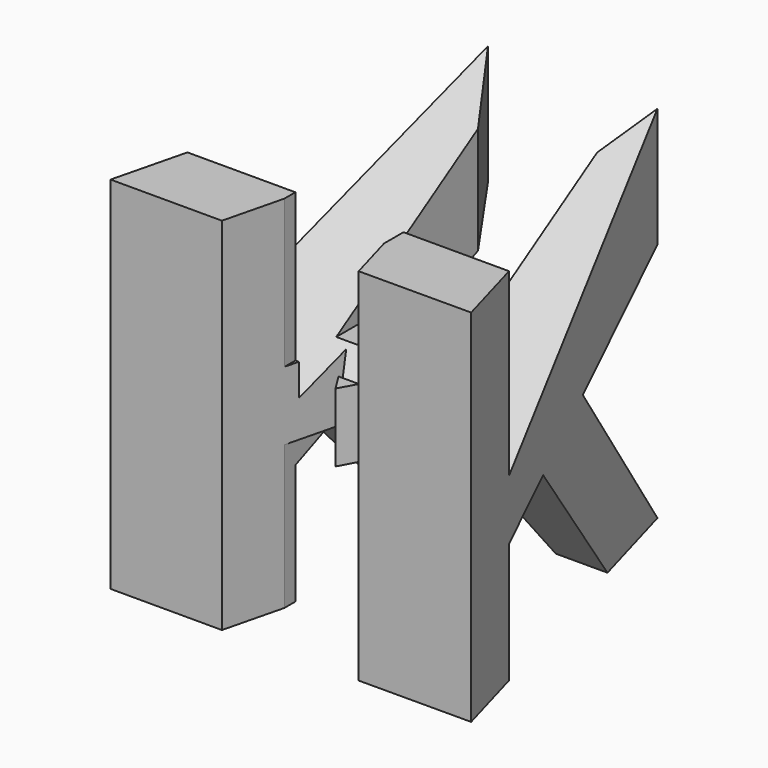
from build123d import *

# Parameters (mm, degrees)
F3_DEPTH = 25
F4_DEPTH = 25
F5_DEPTH = 25


with BuildPart() as f3:
    # F0 (on Front) → F3 (new body, symmetric)
    with BuildSketch(Plane.XZ):
        Polygon((-7.5, 25), (-25, 25), (-25, 10.391577), (-25, -13.939915), (-25, -25), (-7.5, -25), (-7.5, -5.072788), (7.5, -5.072788), (7.5, -25), (25, -25), (25, -13.939915), (25, 10.391577), (25, 25), (7.5, 25), (7.5, 4.447581), (-7.5, 4.447581), align=None)
    extrude(amount=F3_DEPTH, both=True)

    # F2 (on Right) → F4 (intersect, symmetric)
    with BuildSketch(Plane.YZ):
        Polygon((-25, -25), (-14.815953, -25), (-14.815953, -8.320933), (-5.655421, -4.472235), (11.595094, -25), (25, -25), (4.989232, 0), (25, 8.407306), (25, 25), (-14.815953, 0), (-14.815953, 25), (-25, 25), align=None)
    extrude(amount=F4_DEPTH, both=True, mode=Mode.INTERSECT)

    # F1 (on Top) → F5 (intersect, symmetric)
    with BuildSketch(Plane.XY):
        Polygon((-12.632664, 25), (-25, -25), (-9.547958, -25), (-5.475463, -8.535276), (0, -17.231597), (4.751956, -8.469481), (9.423391, -25), (25, -24.961657), (10.881108, 25), (0, 4.936364), align=None)
    extrude(amount=F5_DEPTH, both=True, mode=Mode.INTERSECT)


solid = f3.part
